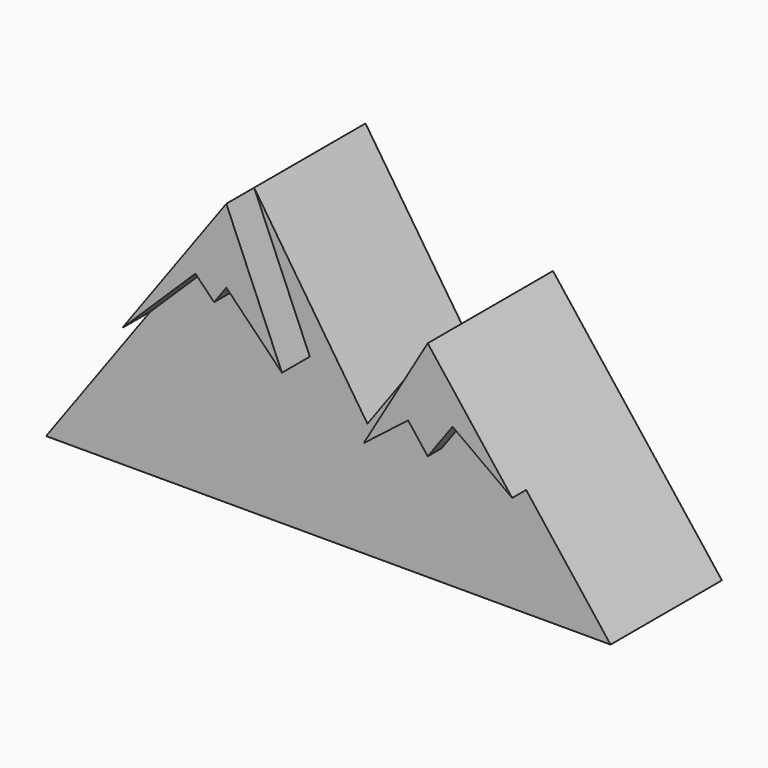
from build123d import *

# Parameters (mm, degrees)
F1_DEPTH = 25.4
F2_DEPTH = 5.08
F4_DEPTH = 5.08
F6_DEPTH = 5.08
F7_DEPTH = 2.54


with BuildPart() as f1:
    # F0 (on Front) → F1 (new body)
    with BuildSketch(Plane.XZ):
        Polygon((8.4221055731, 9.6252635121), (-8.1213163212, 34.5907881856), (-38.5010540485, -7.2189471684), (43.9152643085, -7.2189471684), (19.2508431466, 24.5281786139), align=None)
    extrude(amount=F1_DEPTH)

    # F2 (cut): a face of the model
    f2_faces = [f1.faces().sort_by_distance(p)[0] for p in [
        (1.3839184885, -25.4, 6.2098147026),
    ]]
    extrude(f2_faces, amount=-F2_DEPTH, mode=Mode.SUBTRACT)

    # F3 (on face) → F4 (join)
    with BuildSketch(Plane.XZ.offset(20.32)):
        Polygon((0, 15.509402017), (-8.1213163212, 34.5907881856), (-15.716250753, 24.1383543471), (-23.3111851849, 13.6859205086), (-12.633157894, 24.1383543471), (-9.9049633738, 21.351277577), (-8.1213163212, 23.8059995994), align=None)
    extrude(amount=F4_DEPTH)

    # F5 (on face) → F6 (join)
    with BuildSketch(Plane.XZ.offset(20.32)):
        Polygon((31.5830537275, 8.6546157228), (19.2508431466, 24.5281786139), (9.9095513281, 8.6546157228), (16.3856597612, 13.6859205086), (19.2508431466, 9.9979629957), (22.8732819398, 14.98329923), align=None)
    extrude(amount=F6_DEPTH)

    # F7 (cut): a face of the model
    f7_faces = [f1.faces().sort_by_distance(p)[0] for p in [
        (19.8070463601, -25.4, 16.0557240809),
    ]]
    extrude(f7_faces, amount=-F7_DEPTH, mode=Mode.SUBTRACT)


solid = f1.part
